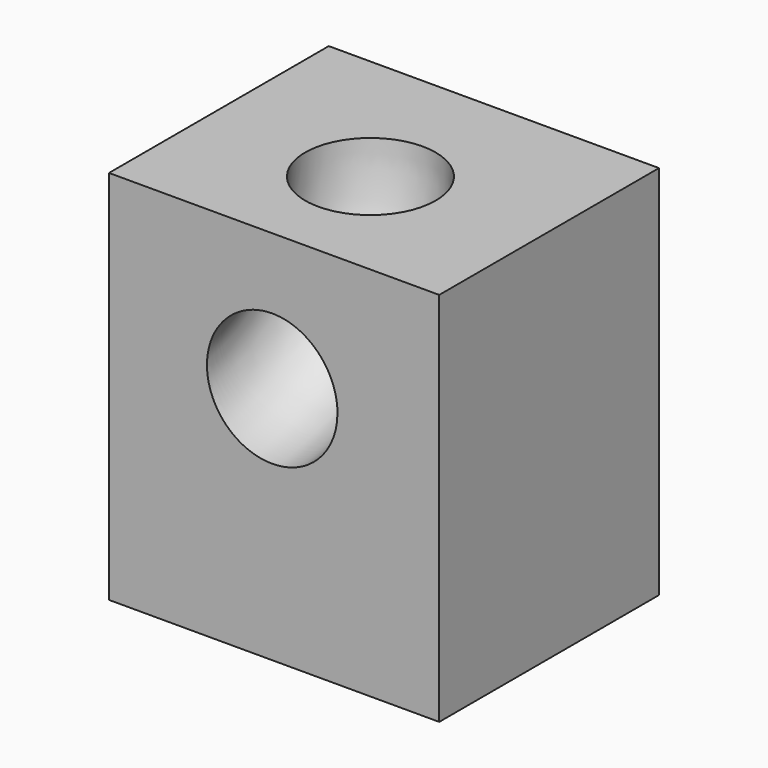
from build123d import *

# Parameters (mm, degrees)
F0_W     = 40.4098057188
F0_H     = 33.6149521172
F1_DEPTH = 46
F2_R     = 7.9831672634


with BuildPart() as f1:
    # F0 (on Top) → F1 (new body)
    with BuildSketch(Plane.XY):
        with Locations((16.2897284608, -16.8074760586)):
            Rectangle(F0_W, F0_H)
    extrude(amount=F1_DEPTH)

    # F5: sweep along a path in F4
    with BuildLine(Plane.YZ.offset(16.056491062)) as f5_path:
        ThreePointArc((-54.1601069272, 47.6001240313), (-37.1759906858, 29.0158837587), (-18.5917504132, 46))
    # F2 (on face) → F5 (sweep, cut)
    with BuildSketch(Plane.XY.offset(46)):
        with Locations((16.056491062, -18.5917504132)):
            Circle(F2_R)
    sweep(path=f5_path.line, mode=Mode.SUBTRACT)


solid = f1.part
